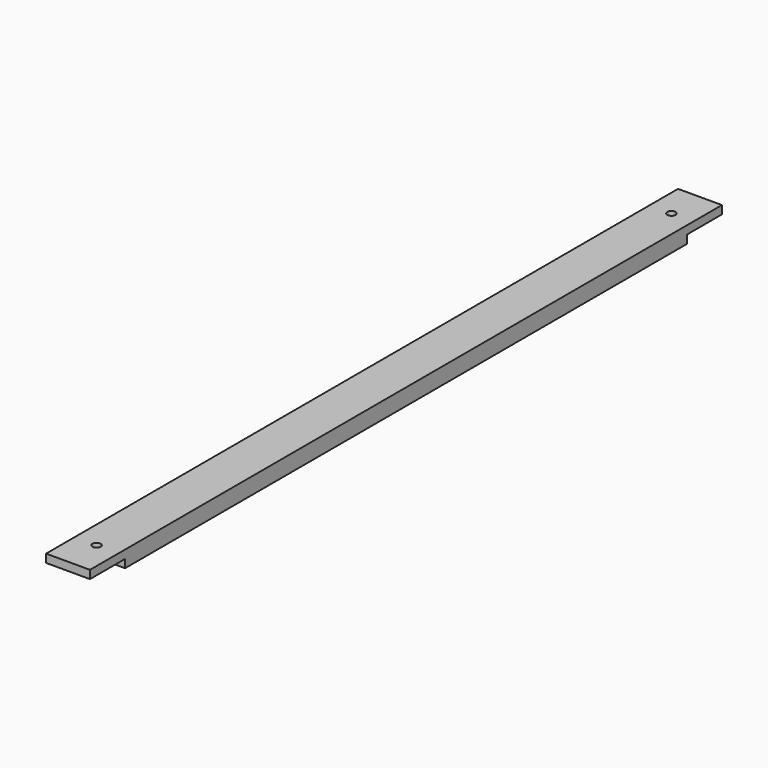
from build123d import *

# Parameters (mm, degrees)
F1_DEPTH = 50.8
F2_R     = 4.7625
F3_DEPTH = 25.4


with BuildPart() as f1:
    # F0 (on Right) → F1 (new body)
    with BuildSketch(Plane.YZ):
        Polygon((-406.4, 0), (-406.4, -9.525), (406.4, -9.525), (406.4, 0), (457.2, 0), (457.2, 9.525), (-457.2, 9.525), (-457.2, 0), align=None)
    extrude(amount=F1_DEPTH)

    # F2 (on face) → F3 (cut)
    with BuildSketch(Plane(origin=(0, 0, -9.525), x_dir=(1, 0, 0), z_dir=(0, 0, -1))):
        with Locations((25.4, -415.925)):
            Circle(F2_R)
        with Locations((25.4, 415.925)):
            Circle(F2_R)
    extrude(amount=-F3_DEPTH, mode=Mode.SUBTRACT)


solid = f1.part
